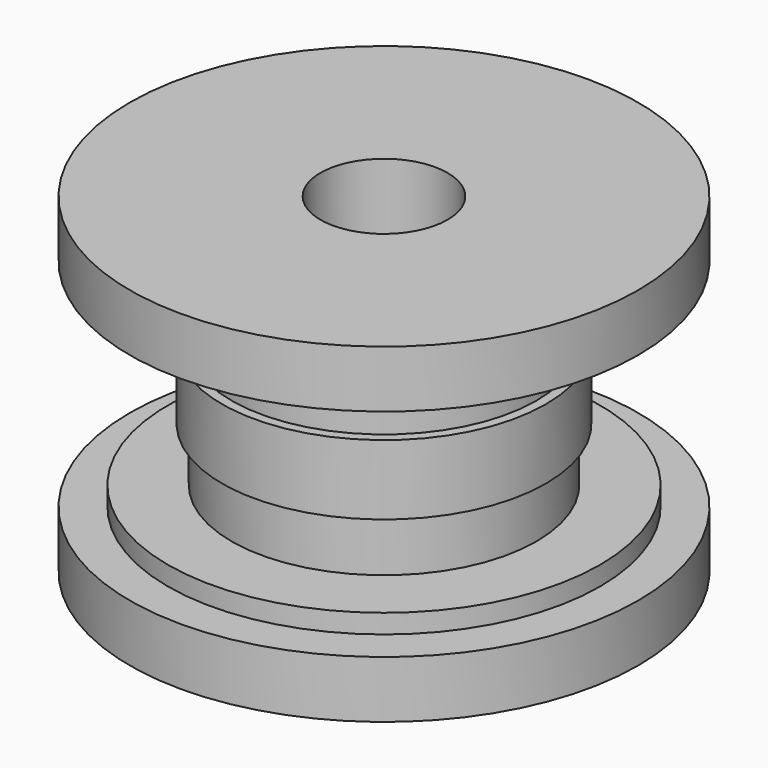
from build123d import *

# Parameters (mm, degrees)
F0_R      = 20
F1_DEPTH  = 4.5
F2_R      = 17
F3_DEPTH  = 1.5
F4_R      = 12
F5_DEPTH  = 4.25
F6_R      = 12.75
F7_DEPTH  = 5.5
F8_R      = 12
F9_DEPTH  = 4.25
F10_R     = 17
F11_DEPTH = 1.5
F12_R     = 20
F13_DEPTH = 4.5
F14_R     = 5
F15_DEPTH = 30


with BuildPart() as f1:
    # F0 (on Top) → F1 (new body)
    with BuildSketch(Plane.XY):
        Circle(F0_R)
    extrude(amount=F1_DEPTH)

    # F2 (on face) → F3 (join)
    with BuildSketch(Plane.XY.offset(4.5)):
        Circle(F2_R)
    extrude(amount=F3_DEPTH)

    # F4 (on face) → F5 (join)
    with BuildSketch(Plane.XY.offset(6)):
        Circle(F4_R)
    extrude(amount=F5_DEPTH)

    # F6 (on face) → F7 (join)
    with BuildSketch(Plane.XY.offset(10.25)):
        Circle(F6_R)
    extrude(amount=F7_DEPTH)

    # F8 (on face) → F9 (join)
    with BuildSketch(Plane.XY.offset(15.75)):
        Circle(F8_R)
    extrude(amount=F9_DEPTH)

    # F10 (on face) → F11 (join)
    with BuildSketch(Plane.XY.offset(20)):
        Circle(F10_R)
    extrude(amount=F11_DEPTH)

    # F12 (on face) → F13 (join)
    with BuildSketch(Plane.XY.offset(21.5)):
        Circle(F12_R)
    extrude(amount=F13_DEPTH)

    # F14 (on face) → F15 (cut)
    with BuildSketch(Plane.XY.offset(26)):
        Circle(F14_R)
    extrude(amount=-F15_DEPTH, mode=Mode.SUBTRACT)


solid = f1.part
